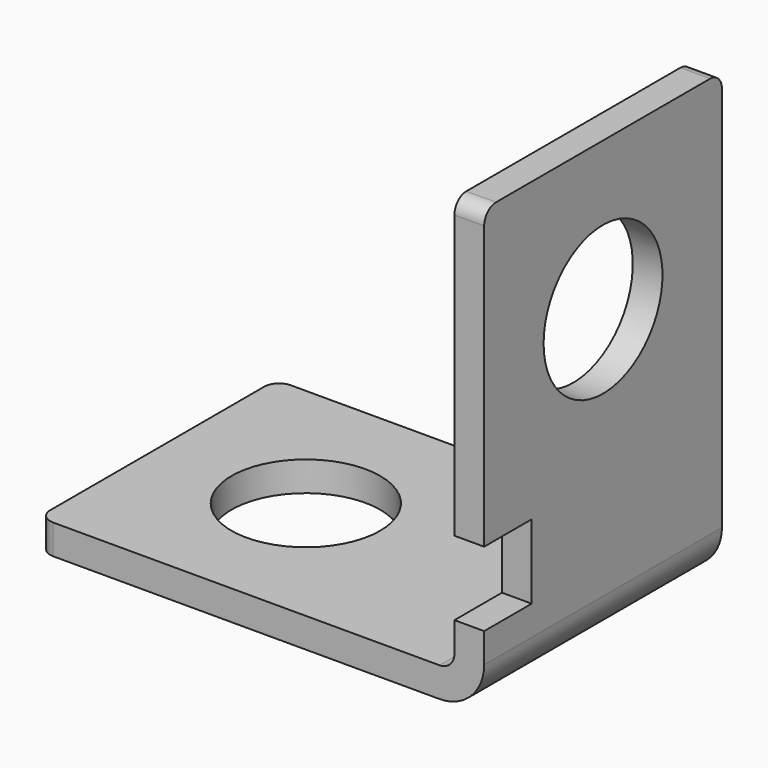
from build123d import *

# Parameters (mm, degrees)
F1_DEPTH = 20
F2_R     = 5
F3_DEPTH = 2.001
F4_R     = 5
F5_DEPTH = 2.001
F6_W     = 4
F6_H     = 5
F7_DEPTH = 2.001
F8_R     = 1
F9_R     = 1
F10_R    = 3


with BuildPart() as f1:
    # F0 (on Front) → F1 (new body)
    with BuildSketch(Plane.XZ):
        Polygon((0, 2), (0, 0), (30, 0), (30, 30), (28, 30), (28, 2), align=None)
    extrude(amount=F1_DEPTH)

    # F2 (on face) → F3 (cut, through all)
    with BuildSketch(Plane.XY.offset(2)):
        with Locations((10, -10)):
            Circle(F2_R)
    extrude(amount=-F3_DEPTH, mode=Mode.SUBTRACT)

    # F4 (on face) → F5 (cut, through all)
    with BuildSketch(Plane(origin=(28, 0, 0), x_dir=(0, -1, 0), z_dir=(-1, 0, 0))):
        with Locations((10, 20)):
            Circle(F4_R)
    extrude(amount=-F5_DEPTH, mode=Mode.SUBTRACT)

    # F6 (on face) → F7 (cut, through all)
    with BuildSketch(Plane(origin=(28, 0, 0), x_dir=(0, -1, 0), z_dir=(-1, 0, 0))):
        with Locations((18, 7.5)):
            Rectangle(F6_W, F6_H)
    extrude(amount=-F7_DEPTH, mode=Mode.SUBTRACT)

    # F8
    f8_edges = [f1.edges().sort_by_distance(p)[0] for p in [
        (29, 0, 30),
        (29, -20, 30),
        (0, -20, 1),
        (0, 0, 1),
    ]]
    fillet(f8_edges, radius=F8_R)

    # F9
    f9_edges = [f1.edges().sort_by_distance(p)[0] for p in [
        (28, -10, 2),
    ]]
    fillet(f9_edges, radius=F9_R)

    # F10
    f10_edges = [f1.edges().sort_by_distance(p)[0] for p in [
        (30, -10, 0),
    ]]
    fillet(f10_edges, radius=F10_R)


solid = f1.part
